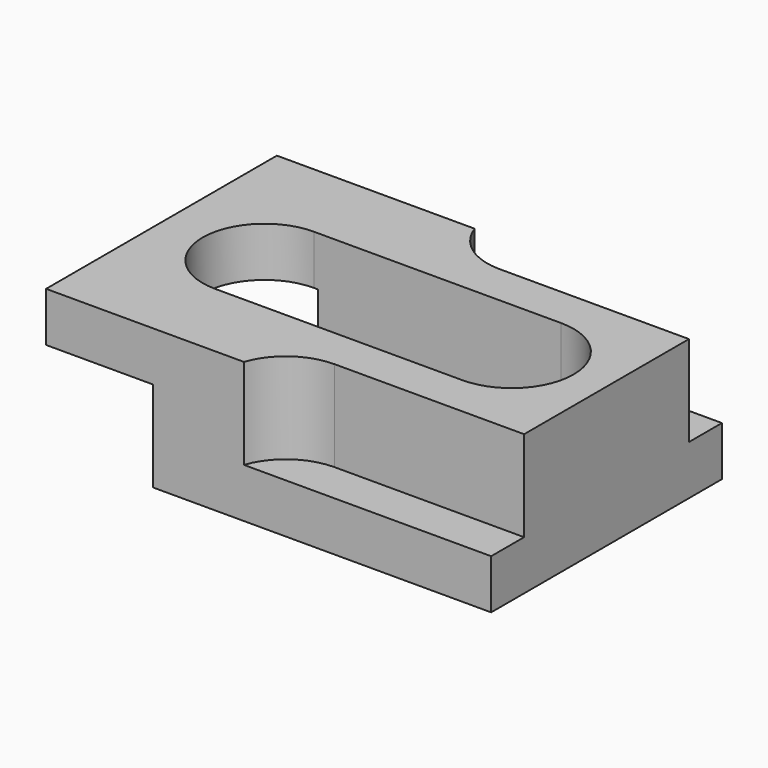
from build123d import *

# Parameters (mm, degrees)
F0_W     = 54
F0_H     = 35
F1_DEPTH = 17
F2_W     = 13
F2_H     = 11
F3_DEPTH = 35
F5_DEPTH = 11
F6_W     = 30
F6_H     = 15
F6_R     = 3
F7_DEPTH = 11
F8_DEPTH = 25


with BuildPart() as f1:
    # F0 (on Top) → F1 (new body)
    with BuildSketch(Plane.XY):
        Rectangle(F0_W, F0_H)
    extrude(amount=F1_DEPTH)

    # F2 (on face) → F3 (cut)
    with BuildSketch(Plane.XZ.offset(17.5)):
        with Locations((-20.5, 5.5)):
            Rectangle(F2_W, F2_H)
    extrude(amount=-F3_DEPTH, mode=Mode.SUBTRACT)

    # F4 (on face) → F5 (cut)
    with BuildSketch(Plane.XY.offset(17)):
        with BuildLine():
            Line((4, -17.5), (27, -17.5))
            Line((27, -17.5), (27, -12.5))
            Line((27, -12.5), (4, -12.5))
            ThreePointArc((4, -12.5), (-0.3011626335, -13.8783723131), (-3, -17.5))
            Line((-3, -17.5), (4, -17.5))
        make_face()
        with BuildLine():
            ThreePointArc((-3, 17.5), (-0.3011626335, 13.8783723131), (4, 12.5))
            Line((4, 12.5), (27, 12.5))
            Line((27, 12.5), (27, 17.5))
            Line((27, 17.5), (4, 17.5))
            Line((4, 17.5), (-3, 17.5))
        make_face()
    extrude(amount=-F5_DEPTH, mode=Mode.SUBTRACT)

    # F6 (on face) → F7 (cut)
    with BuildSketch(Plane.XY.offset(17)):
        with Locations((0.5, 0)):
            Rectangle(F6_W, F6_H)
        with Locations((-5, 0)):
            Circle(F6_R, mode=Mode.SUBTRACT)
        with BuildLine():
            Line((15.5, 7.5), (15.5, -7.5))
            ThreePointArc((15.5, -7.5), (23, 0), (15.5, 7.5))
        make_face()
        with Locations((19, 0)):
            Circle(F6_R, mode=Mode.SUBTRACT)
        with BuildLine():
            ThreePointArc((-14.5, 7.5), (-22, 0), (-14.5, -7.5))
            Line((-14.5, -7.5), (-14.5, 7.5))
        make_face()
    extrude(amount=-F7_DEPTH, mode=Mode.SUBTRACT)

    # F8 (cut): faces of the model
    f8_faces = [f1.faces().sort_by_distance(p)[0] for p in [
        (-5, 0, 17),
        (19, 0, 17),
    ]]
    extrude(f8_faces, amount=-F8_DEPTH, mode=Mode.SUBTRACT)


solid = f1.part
